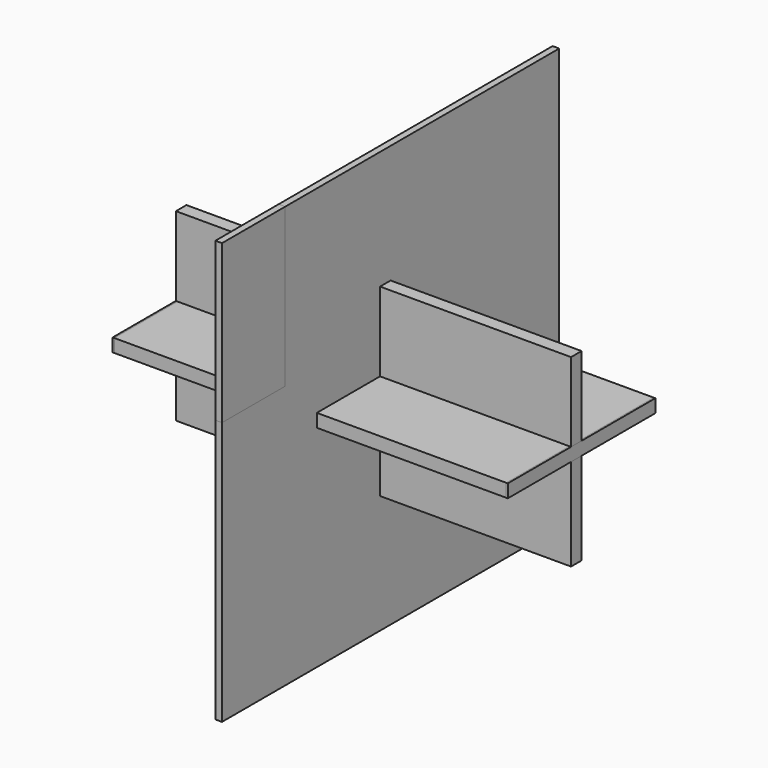
from build123d import *

# Parameters (mm, degrees)
F0_W     = 190.5
F0_H     = 88.9
F1_DEPTH = 6.35
F3_DEPTH = 6.35
F4_W     = 188.9125
F4_H     = 88.9
F5_DEPTH = 6.35
F6_W     = 203.2
F6_H     = 203.2
F7_DEPTH = 3.175
F9_DEPTH = 3.175


with BuildPart() as f1:
    # F0 (on Front) → F1 (new body)
    with BuildSketch(Plane.XZ):
        Rectangle(F0_W, F0_H)
    extrude(amount=F1_DEPTH)


with BuildPart() as f3:
    # F2 (on Top) → F3 (new body)
    with BuildSketch(Plane.XY):
        Polygon((95.25, -44.45), (95.25, 44.45), (-95.25, 44.45), (-95.25, -44.45), (25.4, -44.45), (25.4, 6.35), (73.025, 6.35), (73.025, -44.45), align=None)
    extrude(amount=F3_DEPTH)


with BuildPart() as f5:
    # F4 (on Top) → F5 (new body)
    with BuildSketch(Plane.XY):
        Rectangle(F4_W, F4_H)
    extrude(amount=F5_DEPTH)


with BuildPart() as f7:
    # F6 (on Right) → F7 (new body)
    with BuildSketch(Plane.YZ):
        Rectangle(F6_W, F6_H)
    extrude(amount=F7_DEPTH)


with BuildPart() as f9:
    # F8 (on Right) → F9 (new body)
    with BuildSketch(Plane.YZ):
        Polygon((-101.6, 25.4), (-101.6, -101.6), (101.6, -101.6), (101.6, 101.6), (-63.5, 101.6), (-63.5, 25.4), align=None)
    extrude(amount=F9_DEPTH)


solid = Compound([f1.part, f3.part, f5.part, f7.part, f9.part])
